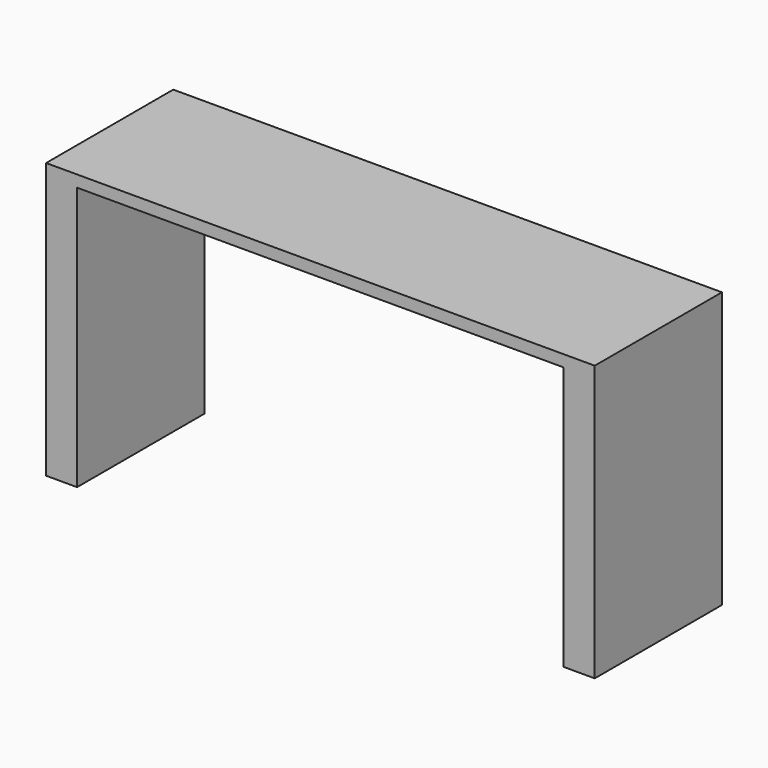
from build123d import *

# Parameters (mm, degrees)
F0_W     = 50.8
F0_H     = 431.8
F1_DEPTH = 130.175


with BuildPart() as f1:
    # F0 (on Front) → F1 (new body, symmetric)
    with BuildSketch(Plane.XZ):
        with Locations((-423.8625, -9.525)):
            Rectangle(F0_W, F0_H)
        Polygon((-449.2625, 225.425), (-449.2625, 206.375), (-398.4625, 206.375), (398.4625, 206.375), (449.2625, 206.375), (449.2625, 225.425), align=None)
        with Locations((423.8625, -9.525)):
            Rectangle(F0_W, F0_H)
    extrude(amount=F1_DEPTH, both=True)


solid = f1.part
